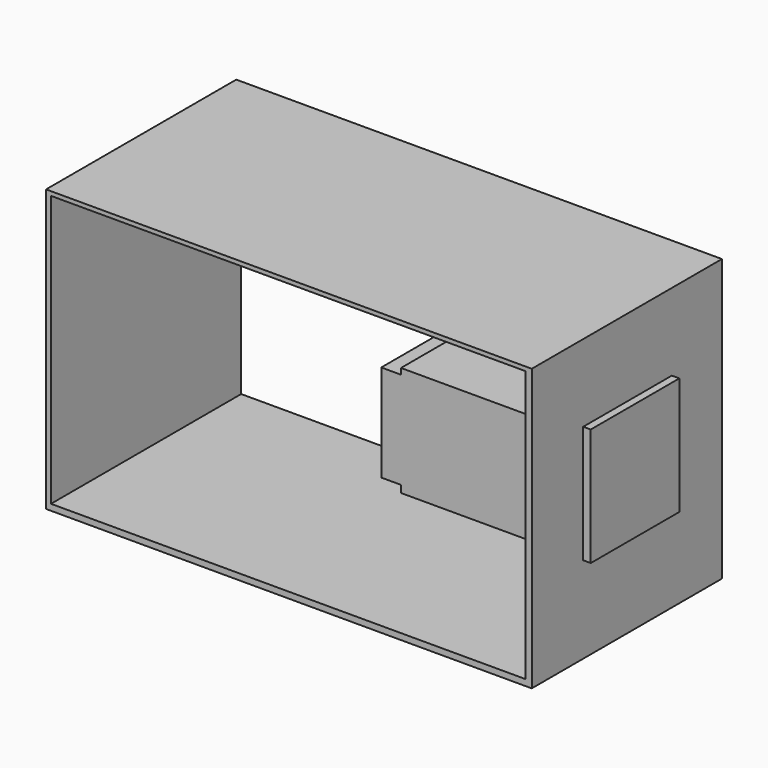
from build123d import *

# Parameters (mm, degrees)
F0_W      = 8
F0_H      = 39.37
F1_DEPTH  = 45
F2_W      = 200
F2_H      = 90
F2_W_2    = 196.1686834693
F2_H_2    = 85.9658196568
F3_DEPTH  = 120
F5_DEPTH  = 44.958
F7_W      = 197.2026191652
F7_H      = 114.2523102462
F7_W_2    = 192.7037164569
F7_H_2    = 110.0756414235
F8_DEPTH  = 96.52
F10_W     = 45
F10_H     = 45
F11_DEPTH = 25.4


with BuildPart() as f1:
    # F0 (on Front) → F1 (new body)
    with BuildSketch(Plane.XZ):
        Polygon((22.4877819419, 9.1920092247), (-51.5122180581, 9.1920092247), (-51.5122180581, 6.7698132348), (-51.5122180581, -32.6001867652), (-51.5122180581, -35.5079907753), (22.4877819419, -35.5079907753), align=None)
        with Locations((-55.5122180581, -12.9151867652)):
            Rectangle(F0_W, F0_H)
        Polygon((22.4877819419, 12.2407088056), (22.4877819419, 9.1920092247), (22.4877819419, -35.5079907753), (25.5342535675, -35.5079907753), (25.5342535675, 12.2407088056), align=None)
    extrude(amount=F1_DEPTH)

    # F2 (on Front) → F3 (join)
    with BuildSketch(Plane.XZ):
        with Locations((-77.9414363205, -12.331022647)):
            Rectangle(F2_W, F2_H)
        with Locations((-77.8260696679, -12.3739996925)):
            Rectangle(F2_W_2, F2_H_2, mode=Mode.SUBTRACT)
    extrude(amount=F3_DEPTH)


with BuildPart() as f1_1:
    # F4: moved
    add(f1.part.moved(Location((0, 20.574, 0))))


with BuildPart() as f5:
    # F0 (on Front) → F5 (new body)
    with BuildSketch(Plane.XZ):
        Polygon((22.4877819419, 9.1920092247), (-51.5122180581, 9.1920092247), (-51.5122180581, 6.7698132348), (-51.5122180581, -32.6001867652), (-51.5122180581, -35.5079907753), (22.4877819419, -35.5079907753), align=None)
        Polygon((22.4877819419, 12.2407088056), (22.4877819419, 9.1920092247), (22.4877819419, -35.5079907753), (25.5342535675, -35.5079907753), (25.5342535675, 12.2407088056), align=None)
        with Locations((-55.5122180581, -12.9151867652)):
            Rectangle(F0_W, F0_H)
    extrude(amount=F5_DEPTH)


with BuildPart() as f8:
    # F7 (on Front) → F8 (new body)
    with BuildSketch(Plane.XZ):
        with Locations((-76.2919057161, 10.9453741461)):
            Rectangle(F7_W, F7_H)
        with Locations((-76.546613127, 11.3612022251)):
            Rectangle(F7_W_2, F7_H_2, mode=Mode.SUBTRACT)
    extrude(amount=F8_DEPTH)


with BuildPart() as f8_1:
    # F9: moved
    add(f8.part.moved(Location((0, 10.16, 0))))

    # F10 (on face) → F11 (cut)
    with BuildSketch(Plane.YZ.offset(22.3094038665)):
        with Locations((-37.8774991259, 11.9105134565)):
            Rectangle(F10_W, F10_H)
    extrude(amount=-F11_DEPTH, mode=Mode.SUBTRACT)


with BuildPart() as f5_1:
    # F12: moved
    add(f5.part.moved(Location((0, -15.494, 24.638))))


solid = Compound([f8_1.part, f5_1.part])
